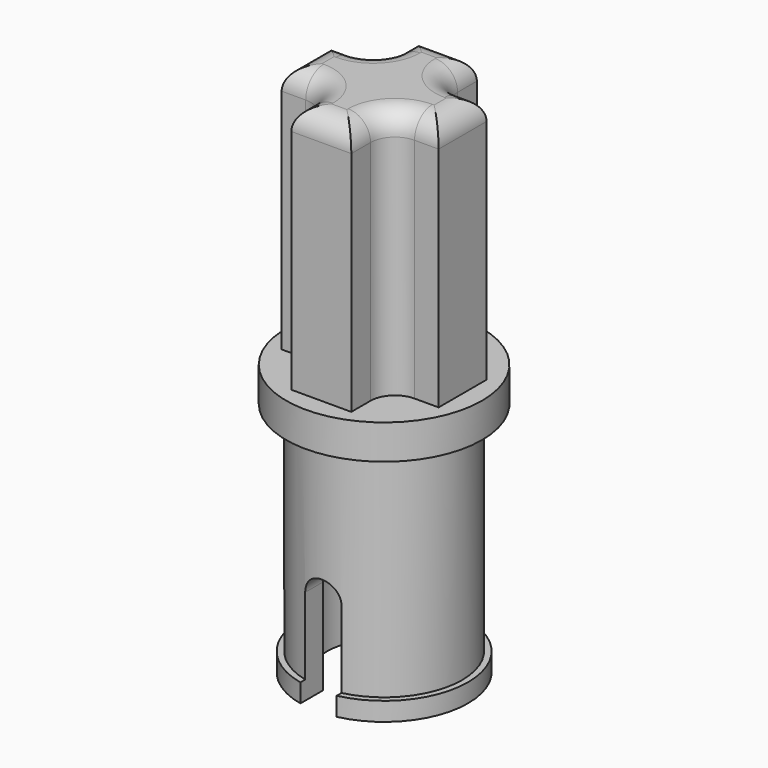
from build123d import *

# Parameters (mm, degrees)
F0_R      = 2.3495
F1_DEPTH  = 15.6718
F3_R      = 2.5273
F4_DEPTH  = 0.5588
F5_DEPTH  = 12.7
F6_R      = 2.9464
F7_DEPTH  = 8.5598
F8_R      = 12.7
F9_DEPTH  = 7.5184
F10_W     = 1.4605
F10_H     = 1.8034
F10_W_2   = 1.8034
F10_H_2   = 1.4605
F11_DEPTH = 7.5184
F12_R     = 0.7358522938
F13_R     = 0.6745312693
F14_R     = 1.7145
F15_DEPTH = 5.8674


with BuildPart() as f1:
    # F0 (on Top) → F1 (new body)
    with BuildSketch(Plane.XY):
        Circle(F0_R)
    extrude(amount=F1_DEPTH)

    # F3 (on face) → F4 (join)
    with BuildSketch(Plane(origin=(0, 0, 0), x_dir=(1, 0, 0), z_dir=(0, 0, -1))):
        Circle(F3_R)
    extrude(amount=-F4_DEPTH)

    # F2 (on Front) → F5 (cut, symmetric)
    with BuildSketch(Plane.XZ):
        with BuildLine():
            Line((-0.5461, -2.8702), (0.5461, -2.8702))
            Line((0.5461, -2.8702), (0.5461, 2.8702))
            ThreePointArc((0.5461, 2.8702), (0, 2.3241), (-0.5461, 2.8702))
            Line((-0.5461, 2.8702), (-0.5461, -2.8702))
        make_face()
        with BuildLine():
            ThreePointArc((-0.5461, 2.8702), (0, 2.3241), (0.5461, 2.8702))
            Line((0.5461, 2.8702), (-0.5461, 2.8702))
        make_face()
        with BuildLine():
            Line((-0.5461, 2.8702), (0.5461, 2.8702))
            ThreePointArc((0.5461, 2.8702), (0, 3.4163), (-0.5461, 2.8702))
        make_face()
    extrude(amount=F5_DEPTH, both=True, mode=Mode.SUBTRACT)

    # F6 (on face) → F7 (join)
    with BuildSketch(Plane.XY.offset(15.6718)):
        Circle(F6_R)
    extrude(amount=-F7_DEPTH)

    # F8 (on face) → F9 (cut)
    with BuildSketch(Plane.XY.offset(15.6718)):
        Circle(F8_R)
    extrude(amount=-F9_DEPTH, mode=Mode.SUBTRACT)

    # F10 (on face) → F11 (join)
    with BuildSketch(Plane.XY.offset(8.1534)):
        with Locations((1.63195, 0)):
            Rectangle(F10_W, F10_H)
        with Locations((0, -1.63195)):
            Rectangle(F10_W_2, F10_H_2)
        Rectangle(F10_W_2, F10_H)
        with Locations((-1.63195, 0)):
            Rectangle(F10_W, F10_H)
        with Locations((0, 1.63195)):
            Rectangle(F10_W_2, F10_H_2)
    extrude(amount=F11_DEPTH)

    # F12
    f12_edges = [f1.edges().sort_by_distance(p)[0] for p in [
        (-0.9017, -0.9017, 11.9126),
        (0.9017, 0.9017, 11.9126),
        (0.9017, -0.9017, 11.9126),
        (-0.9017, 0.9017, 11.9126),
    ]]
    fillet(f12_edges, radius=F12_R)

    # F13
    f13_edges = [f1.edges().sort_by_distance(p)[0] for p in [
        (1.999876, -0.9017, 15.6718),
        (1.117226, -1.117226, 15.6718),
        (2.3622, 0, 15.6718),
        (0.9017, -1.999876, 15.6718),
        (1.999876, 0.9017, 15.6718),
        (0, -2.3622, 15.6718),
        (1.117226, 1.117226, 15.6718),
        (-0.9017, -1.999876, 15.6718),
        (0.9017, 1.999876, 15.6718),
        (-1.117226, -1.117226, 15.6718),
        (0, 2.3622, 15.6718),
        (-1.999876, -0.9017, 15.6718),
        (-0.9017, 1.999876, 15.6718),
        (-2.3622, 0, 15.6718),
        (-1.117226, 1.117226, 15.6718),
        (-1.999876, 0.9017, 15.6718),
    ]]
    fillet(f13_edges, radius=F13_R)

    # F14 (on face) → F15 (cut)
    with BuildSketch(Plane(origin=(0, 0, 0), x_dir=(1, 0, 0), z_dir=(0, 0, -1))):
        Circle(F14_R)
    extrude(amount=-F15_DEPTH, mode=Mode.SUBTRACT)


solid = f1.part
